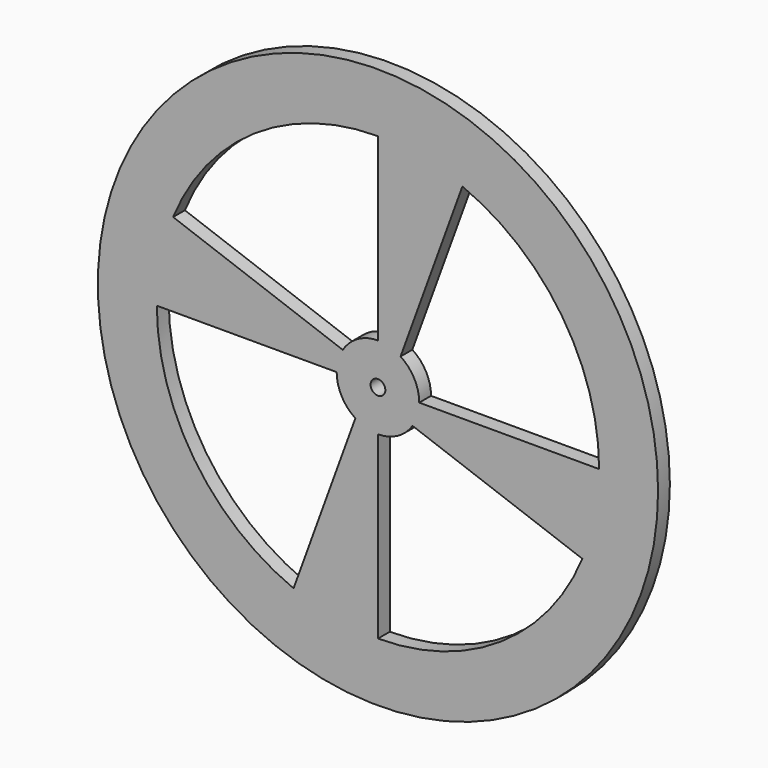
from build123d import *

# Parameters (mm, degrees)
F0_R     = 60.325
F0_R_2   = 1.5875
F1_DEPTH = 3.175


with BuildPart() as f1:
    # F0 (on Front) → F1 (new body)
    with BuildSketch(Plane.XZ):
        Circle(F0_R)
        with BuildLine():
            ThreePointArc((-18.181951, -44.017693), (-39.585705, -26.478531), (-47.625, 0))
            Line((-47.625, 0), (-8.89, 0))
            ThreePointArc((-8.89, 0), (-7.82019, -4.228088), (-4.868239, -7.438571))
            Line((-4.868239, -7.438571), (-18.181951, -44.017693))
        make_face(mode=Mode.SUBTRACT)
        with BuildLine():
            ThreePointArc((0, -8.89), (4.228088, -7.82019), (7.438571, -4.868239))
            Line((7.438571, -4.868239), (44.017693, -18.181951))
            ThreePointArc((44.017693, -18.181951), (26.478531, -39.585705), (0, -47.625))
            Line((0, -47.625), (0, -8.89))
        make_face(mode=Mode.SUBTRACT)
        with BuildLine():
            Line((0, 47.625), (0, 8.89))
            ThreePointArc((0, 8.89), (-4.343939, 7.756436), (-7.580086, 4.644825))
            Line((-7.580086, 4.644825), (-44.11575, 17.94272))
            ThreePointArc((-44.11575, 17.94272), (-26.585885, 39.513685), (0, 47.625))
        make_face(mode=Mode.SUBTRACT)
        Circle(F0_R_2, mode=Mode.SUBTRACT)
        with BuildLine():
            ThreePointArc((8.89, 0), (7.82019, 4.228088), (4.868239, 7.438571))
            Line((4.868239, 7.438571), (18.181951, 44.017693))
            ThreePointArc((18.181951, 44.017693), (39.585705, 26.478531), (47.625, 0))
            Line((47.625, 0), (8.89, 0))
        make_face(mode=Mode.SUBTRACT)
    extrude(amount=F1_DEPTH)


solid = f1.part
